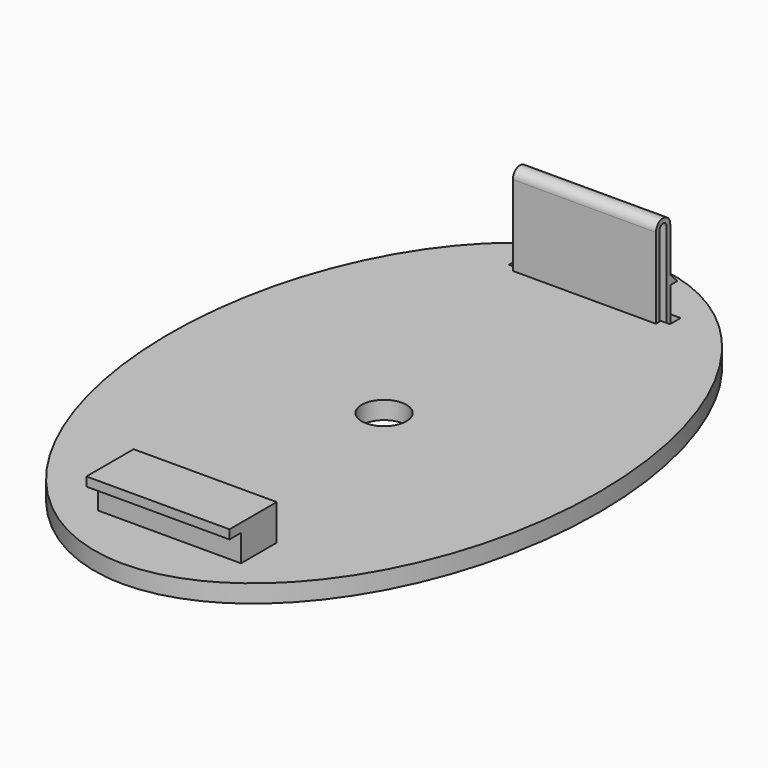
from build123d import *

# Parameters (mm, degrees)
F0_R     = 3.175
F1_DEPTH = 2.54
F3_DEPTH = 5.08
F4_W     = 20.32
F4_H     = 1.27
F5_DEPTH = 2.032
F6_W     = 1.905
F6_H     = 2.54
F7_DEPTH = 11.43
F8_W     = 0.635
F8_H     = 2.54
F9_DEPTH = 10.16


with BuildPart() as f1:
    # F0 (on Top) → F1 (new body)
    with BuildSketch(Plane.XY):
        with BuildLine():
            add(Edge.make_bspline(
                [(0, -46.355), (52.7929086147, -46.355), (26.3964543073, 23.1775), (0, 92.71), (-26.3964543073, 23.1775), (-52.7929086147, -46.355), (0, -46.355)],
                knots=[0, 0, 0, 2.0943951024, 2.0943951024, 4.1887902048, 4.1887902048, 6.2831853072, 6.2831853072, 6.2831853072], degree=2, weights=[1, 0.5, 1, 0.5, 1, 0.5, 1]))
        make_face()
        Circle(F0_R, mode=Mode.SUBTRACT)
    extrude(amount=F1_DEPTH)

    # F2 (on face) → F3 (join)
    with BuildSketch(Plane.XY.offset(2.54)):
        Polygon((10.16, -31.75), (-10.16, -31.75), (-10.16, -38.1), (0, -38.1), (10.16, -38.1), align=None)
    extrude(amount=F3_DEPTH)

    # F4 (on face) → F5 (join)
    with BuildSketch(Plane.XZ.offset(38.1)):
        with Locations((0, 6.985)):
            Rectangle(F4_W, F4_H)
    extrude(amount=F5_DEPTH)

    # F6 (on Right) → F7 (cut, symmetric)
    with BuildSketch(Plane.YZ):
        with Locations((37.4015, 1.27)):
            Rectangle(F6_W, F6_H)
    extrude(amount=F7_DEPTH, both=True, mode=Mode.SUBTRACT)

    # F8 (on Right) → F9 (join, symmetric)
    with BuildSketch(Plane.YZ):
        with BuildLine():
            Line((35.56, 2.54), (36.195, 2.54))
            Line((36.195, 2.54), (36.195, 13.97))
            ThreePointArc((36.195, 13.97), (36.83, 14.605), (37.465, 13.97))
            Line((37.465, 13.97), (37.465, 2.54))
            Line((37.465, 2.54), (38.1, 2.54))
            Line((38.1, 2.54), (38.1, 6.35))
            Line((38.1, 6.35), (38.1, 7.62))
            Line((38.1, 7.62), (38.1, 13.97))
            ThreePointArc((38.1, 13.97), (36.83, 15.24), (35.56, 13.97))
            Line((35.56, 13.97), (35.56, 2.54))
        make_face()
        Polygon((38.1, 7.62), (38.1, 6.35), (39.37, 6.35), align=None)
        with Locations((37.7825, 1.27)):
            Rectangle(F8_W, F8_H)
    extrude(amount=F9_DEPTH, both=True)


solid = f1.part
